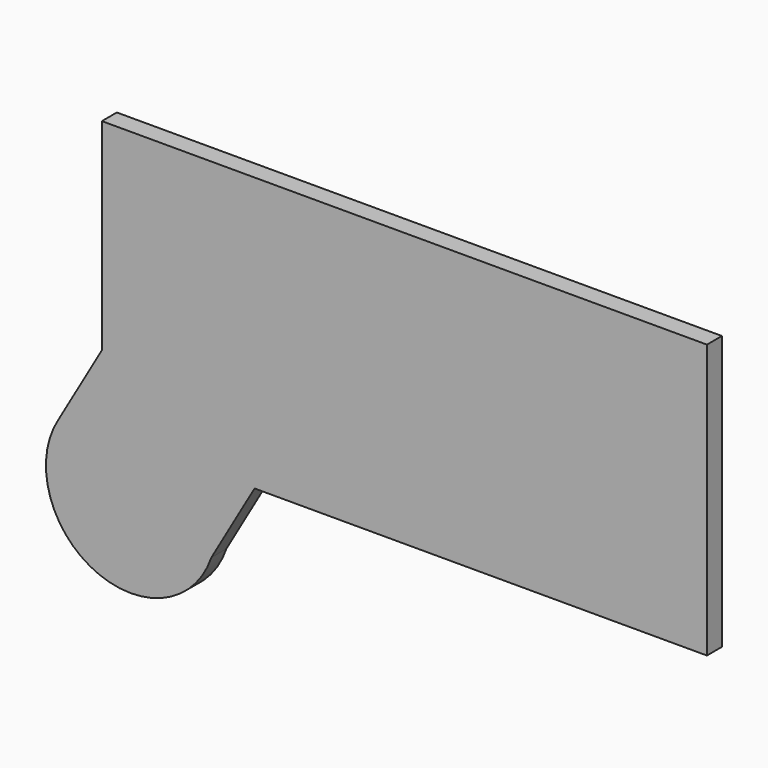
from build123d import *

# Parameters (mm, degrees)
F1_DEPTH = 32.5


with BuildPart() as f1:
    # F0 (on Front) → F1 (new body, symmetric)
    with BuildSketch(Plane.XZ):
        with BuildLine():
            ThreePointArc((395.695378, -1114.885264), (181.421498, -831.23384), (-150, -959.807621))
            ThreePointArc((-150, -959.807621), (-24.990139, -1381.586716), (380, -1209.807621))
            ThreePointArc((380, -1209.807621), (391.745074, -1162.990874), (395.695378, -1114.885264))
        make_face()
        with BuildLine():
            Line((2100, 0), (0, 0))
            Line((0, 0), (0, -700))
            Line((0, -700), (-150, -959.807621))
            ThreePointArc((-150, -959.807621), (181.421498, -831.23384), (395.695378, -1114.885264))
            ThreePointArc((395.695378, -1114.885264), (391.745074, -1162.990874), (380, -1209.807621))
            Line((380, -1209.807621), (530, -950))
            Line((530, -950), (2100, -950))
            Line((2100, -950), (2100, 0))
        make_face()
    extrude(amount=F1_DEPTH, both=True)


solid = f1.part
